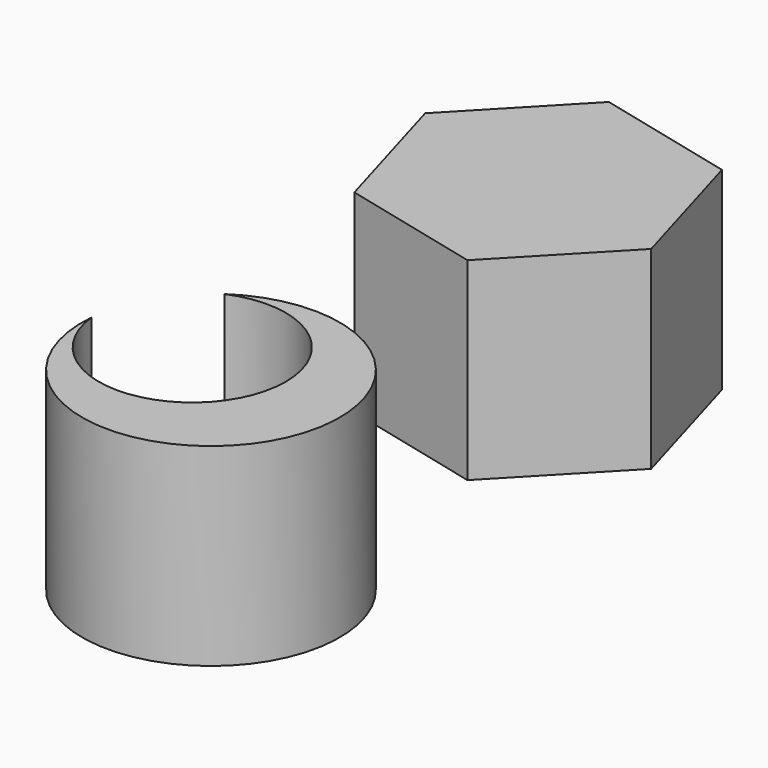
from build123d import *

# Parameters (mm, degrees)
F0_R     = 16.8963338529
F1_DEPTH = 25.4
F3_DEPTH = 25.4


with BuildPart() as f1:
    # F0 (on Top) → F1 (new body)
    with BuildSketch(Plane.XY):
        Circle(F0_R)
    extrude(amount=F1_DEPTH)

    # F2 (on face) → F3 (cut)
    with BuildSketch(Plane.XY.offset(25.4)):
        with BuildLine():
            ThreePointArc((-16.8306893282, 1.4879497325), (-4.0129229756, -9.509621723), (7.6219865538, 2.7325428091))
            ThreePointArc((7.6219865538, 2.7325428091), (2.1170359569, 12.9626462096), (-9.4533791603, 14.0042750659))
            ThreePointArc((-9.4533791603, 14.0042750659), (-14.5560181382, 8.5795357467), (-16.8306893282, 1.4879497325))
        make_face()
    extrude(amount=-F3_DEPTH, mode=Mode.SUBTRACT)


with BuildPart() as f1b:
    # F0 (on Top) → F1, piece 2 (new body)
    with BuildSketch(Plane.XY):
        Polygon((18.4437576021, 49.1303880544), (13.1381061589, 67.3641855983), (-5.3056514432, 71.8862554368), (-18.4437576021, 58.1745277314), (-13.1381061589, 39.9407301875), (5.3056514432, 35.418660349), align=None)
    extrude(amount=F1_DEPTH)


solid = Compound([f1.part, f1b.part])
